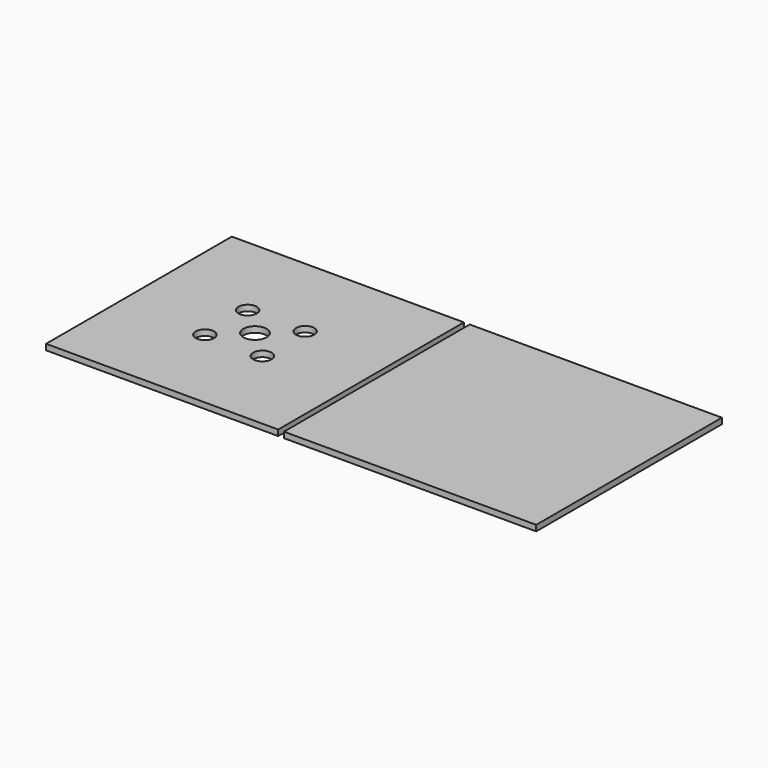
from build123d import *

# Parameters (mm, degrees)
BOX001_W          = 43.46
BOX001_H          = 40
BOX001_DEPTH      = 1
CYLINDER004_R     = 2
CYLINDER004_DEPTH = 1
CYLINDER003_R     = 1.58
CYLINDER003_DEPTH = 1
CYLINDER_R        = 1.58
CYLINDER_DEPTH    = 1
CYLINDER001_R     = 1.58
CYLINDER001_DEPTH = 1
CYLINDER002_R     = 1.58
CYLINDER002_DEPTH = 1
BOX_W             = 40
BOX_H             = 40
BOX_DEPTH         = 1


with BuildPart() as cube001:
    # Box001 → Box001 (new body)
    with BuildSketch(Plane(origin=(21, -20, 0), x_dir=(1, 0, 0), z_dir=(0, 0, 1))):
        with Locations((21.73, 20)):
            Rectangle(BOX001_W, BOX001_H)
    extrude(amount=BOX001_DEPTH)


with BuildPart() as cylinder004:
    # Cylinder004 → Cylinder004 (new body)
    with BuildSketch(Plane.XY):
        Circle(CYLINDER004_R)
    extrude(amount=CYLINDER004_DEPTH)


with BuildPart() as cylinder003:
    # Cylinder003 → Cylinder003 (new body)
    with BuildSketch(Plane(origin=(4.95, -4.6, 0), x_dir=(1, 0, 0), z_dir=(0, 0, 1))):
        Circle(CYLINDER003_R)
    extrude(amount=CYLINDER003_DEPTH)


with BuildPart() as cylinder:
    # Cylinder → Cylinder (new body)
    with BuildSketch(Plane(origin=(-4.95, -4.6, 0), x_dir=(1, 0, 0), z_dir=(0, 0, 1))):
        Circle(CYLINDER_R)
    extrude(amount=CYLINDER_DEPTH)


with BuildPart() as cylinder001:
    # Cylinder001 → Cylinder001 (new body)
    with BuildSketch(Plane(origin=(-4.95, 4.6, 0), x_dir=(1, 0, 0), z_dir=(0, 0, 1))):
        Circle(CYLINDER001_R)
    extrude(amount=CYLINDER001_DEPTH)


with BuildPart() as cylinder002:
    # Cylinder002 → Cylinder002 (new body)
    with BuildSketch(Plane(origin=(4.95, 4.6, 0), x_dir=(1, 0, 0), z_dir=(0, 0, 1))):
        Circle(CYLINDER002_R)
    extrude(amount=CYLINDER002_DEPTH)


with BuildPart() as cut004:
    # Box → Box (new body)
    with BuildSketch(Plane(origin=(-20, -20, 0), x_dir=(1, 0, 0), z_dir=(0, 0, 1))):
        with Locations((20, 20)):
            Rectangle(BOX_W, BOX_H)
    extrude(amount=BOX_DEPTH)

    # Cut: cut Cylinder002
    add(cylinder002.part, mode=Mode.SUBTRACT)

    # Cut001: cut Cylinder001
    add(cylinder001.part, mode=Mode.SUBTRACT)

    # Cut002: cut Cylinder
    add(cylinder.part, mode=Mode.SUBTRACT)

    # Cut003: cut Cylinder003
    add(cylinder003.part, mode=Mode.SUBTRACT)

    # Cut004: cut Cylinder004
    add(cylinder004.part, mode=Mode.SUBTRACT)


solid = Compound([cube001.part, cut004.part])
